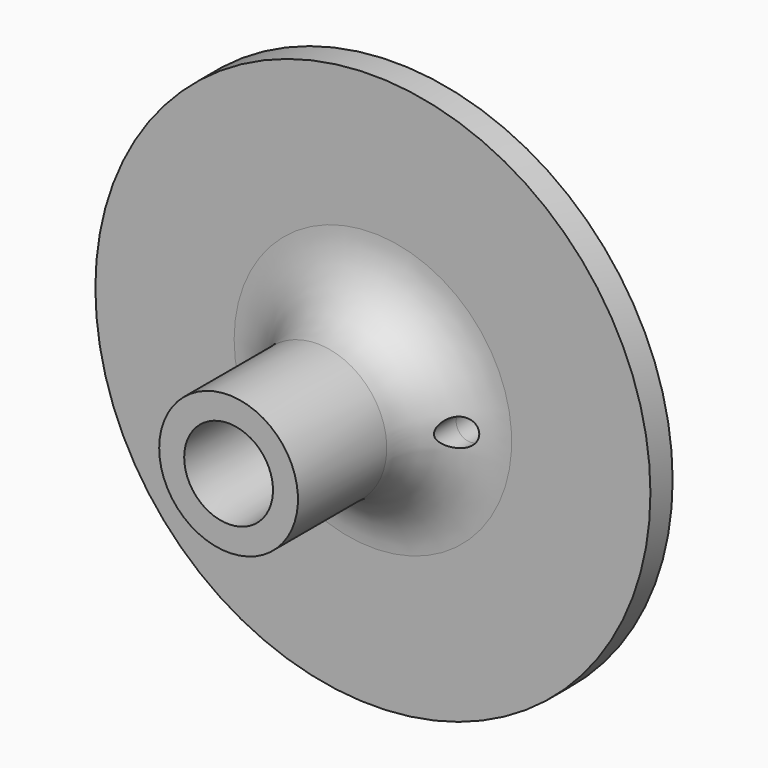
from build123d import *

# Parameters (mm, degrees)
F2_R          = 5
F3_R          = 1
F4_DEPTH      = 2.001
F4_DEPTH_BACK = 13.001


with BuildPart() as f1:
    # F0 (on Top) → F1 (revolve)
    with BuildSketch(Plane.XY):
        Polygon((-5, 0), (-3.2, 0), (-2.7, 15), (-20, 15), (-20, 13), (-5, 13), align=None)
    revolve(axis=Axis((0, -0.5978257842, 0), (0, -1, 0)))

    # F2
    f2_edges = [f1.edges().sort_by_distance(p)[0] for p in [
        (5, 13, 0),
    ]]
    fillet(f2_edges, radius=F2_R)

    # F3 (on face) → F4 (cut, two sides)
    with BuildSketch(Plane.XZ.offset(-13)) as f4_sk:
        with Locations((7, 0)):
            Circle(F3_R)
    extrude(amount=-F4_DEPTH, mode=Mode.SUBTRACT)
    extrude(f4_sk.sketch, amount=F4_DEPTH_BACK, mode=Mode.SUBTRACT)


solid = f1.part
